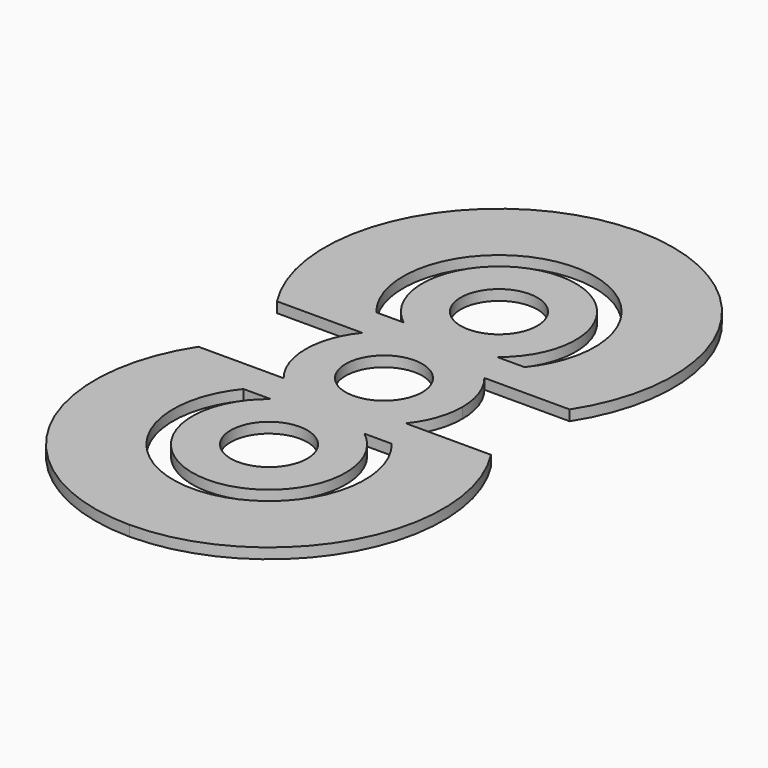
from build123d import *

# Parameters (mm, degrees)
F0_R     = 11
F1_DEPTH = 3


with BuildPart() as f1:
    # F0 (on Top) → F1 (new body)
    with BuildSketch(Plane.XY):
        with BuildLine():
            Line((-41.992317, 14.101748), (-17.532561, 14.101748))
            ThreePointArc((-17.532561, 14.101748), (-21.221836, 7.475539), (-22.5, 0))
            ThreePointArc((-22.5, 0), (-21.221836, -7.475539), (-17.532561, -14.101748))
            Line((-17.532561, -14.101748), (-41.992317, -14.101748))
            ThreePointArc((-41.992317, -14.101748), (-43.915035, -65.148392), (0, -91.24296))
            ThreePointArc((0, -91.24296), (43.915035, -65.148392), (41.992317, -14.101748))
            Line((41.992317, -14.101748), (17.532561, -14.101748))
            ThreePointArc((17.532561, -14.101748), (21.221836, -7.475539), (22.5, 0))
            ThreePointArc((22.5, 0), (21.221836, 7.475539), (17.532561, 14.101748))
            Line((17.532561, 14.101748), (41.992317, 14.101748))
            ThreePointArc((41.992317, 14.101748), (43.915035, 65.148392), (0, 91.24296))
            ThreePointArc((0, 91.24296), (-43.915035, 65.148392), (-41.992317, 14.101748))
        make_face()
        with BuildLine():
            ThreePointArc((21.271808, -23.814242), (0, -68.74296), (-21.271808, -23.814242))
            Line((-21.271808, -23.814242), (-13.425342, -23.814242))
            ThreePointArc((-13.425342, -23.814242), (0, -63.24296), (13.425342, -23.814242))
            Line((13.425342, -23.814242), (21.271808, -23.814242))
        make_face(mode=Mode.SUBTRACT)
        with Locations((0, -41.24296)):
            Circle(F0_R, mode=Mode.SUBTRACT)
        with BuildLine():
            ThreePointArc((-11, 0), (0, 11), (11, 0))
            ThreePointArc((11, 0), (0, -11), (-11, 0))
        make_face(mode=Mode.SUBTRACT)
        with Locations((0, 41.24296)):
            Circle(F0_R, mode=Mode.SUBTRACT)
        with BuildLine():
            Line((21.271808, 23.814242), (13.425342, 23.814242))
            ThreePointArc((13.425342, 23.814242), (0, 63.24296), (-13.425342, 23.814242))
            Line((-13.425342, 23.814242), (-21.271808, 23.814242))
            ThreePointArc((-21.271808, 23.814242), (0, 68.74296), (21.271808, 23.814242))
        make_face(mode=Mode.SUBTRACT)
    extrude(amount=F1_DEPTH)


solid = f1.part
